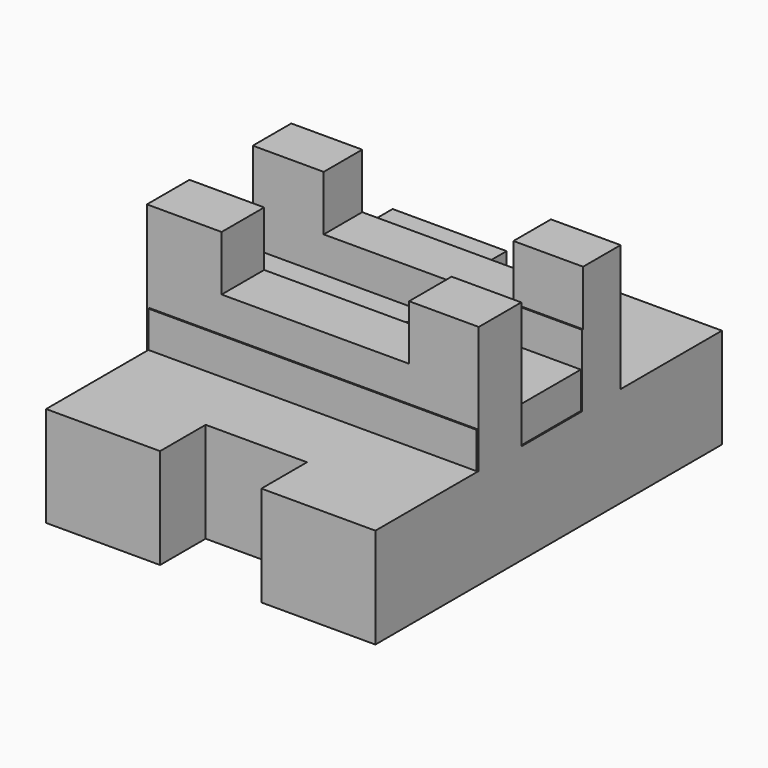
from build123d import *

# Parameters (mm, degrees)
F1_DEPTH = 25.908
F2_W     = 84.75497365
F2_H     = 46.1407359689
F3_DEPTH = 35.306
F4_W     = 85.4094512761
F4_H     = 12.4350916594
F4_H_2   = 13.7440478429
F5_DEPTH = 44.45
F6_W     = 18.3254014701
F6_H     = 12.4350916594
F6_W_2   = 17.998162657
F6_H_2   = 12.1078519151
F6_W_3   = 19.3071179092
F6_H_3   = 13.7440478429
F7_DEPTH = 58.674
F8_R     = 6.9031193851
F9_DEPTH = 43.942


with BuildPart() as f1:
    # F0 (on Top) → F1 (new body)
    with BuildSketch(Plane.XY):
        Polygon((-13.4168099612, 56.1196766794), (-42.8683459759, 56.1196766794), (-42.8683459759, -55.7961538434), (-13.4168099612, -55.7961538434), (-13.4168099612, -41.0703867674), (12.7623323351, -41.0703867674), (12.7623323351, -55.7961538434), (42.2138683498, -55.7961538434), (42.2138683498, 56.1196766794), (12.7623323351, 56.1196766794), (12.7623323351, 41.0666689277), (-13.4168099612, 41.0666689277), align=None)
    extrude(amount=F1_DEPTH)

    # F2 (on Top) → F3 (join)
    with BuildSketch(Plane.XY):
        with Locations((-0.4908591509, 0.3253789619)):
            Rectangle(F2_W, F2_H)
    extrude(amount=F3_DEPTH)

    # F4 (on Top) → F5 (join)
    with BuildSketch(Plane.XY):
        with Locations((-0.4908572882, 17.1782011166)):
            Rectangle(F4_W, F4_H)
        with Locations((-0.4908572882, -15.5457244255)):
            Rectangle(F4_W, F4_H_2)
    extrude(amount=F5_DEPTH)

    # F6 (on Top) → F7 (join)
    with BuildSketch(Plane.XY):
        with Locations((-33.7056452408, 17.1782011166)):
            Rectangle(F6_W, F6_H)
        with Locations((33.2147870213, 17.3418209888)):
            Rectangle(F6_W_2, F6_H_2)
        with Locations((-33.8692646474, -15.5457244255)):
            Rectangle(F6_W_3, F6_H_3)
        with Locations((33.2147870213, -15.5457244255)):
            Rectangle(F6_W_2, F6_H_3)
    extrude(amount=F7_DEPTH)

    # F8 (on Top) → F9 (cut)
    with BuildSketch(Plane.XY):
        with Locations((6.05578674, 0)):
            Circle(F8_R)
    extrude(amount=F9_DEPTH, mode=Mode.SUBTRACT)


solid = f1.part
